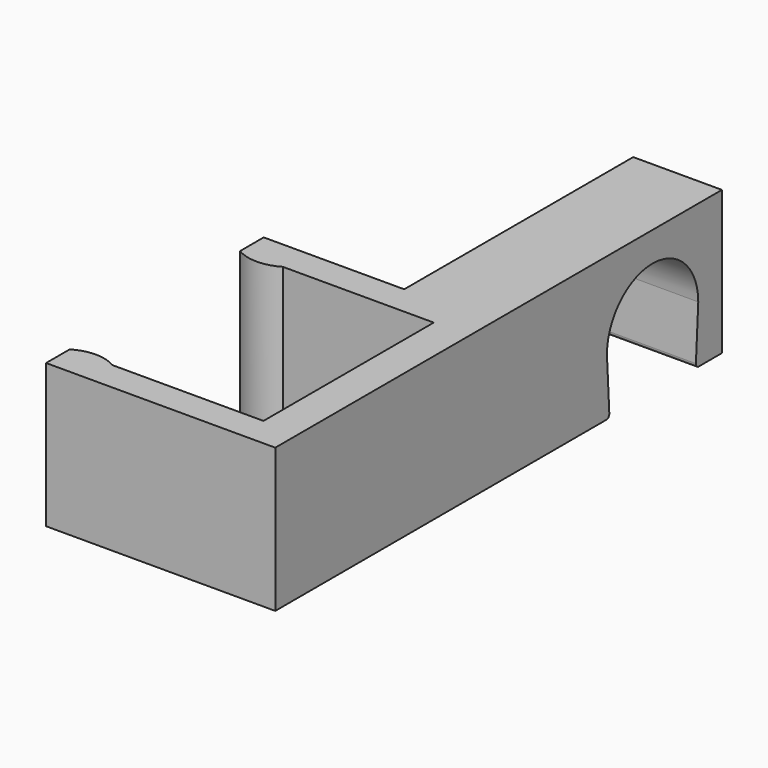
from build123d import *

# Parameters (mm, degrees)
F1_DEPTH = 24.3
F3_DEPTH = 25


with BuildPart() as f1:
    # F0 (on Top) → F1 (new body)
    with BuildSketch(Plane.XY):
        with BuildLine():
            ThreePointArc((0, 0), (3.60941, -1), (7.218819, 0))
            Line((7.218819, 0), (32.749999, 0))
            Line((32.749999, 0), (32.749999, -36))
            Line((32.749999, -36), (7.218819, -36))
            ThreePointArc((7.218819, -36), (3.60941, -35), (0, -36))
            Line((0, -36), (0, -41))
            Line((0, -41), (38.749999, -41))
            Line((38.749999, -41), (38.749999, 53.4))
            Line((38.749999, 53.4), (23.749999, 53.4))
            Line((23.749999, 53.4), (23.749999, 5))
            Line((23.749999, 5), (0, 5))
            Line((0, 5), (0, 0))
        make_face()
    extrude(amount=F1_DEPTH)

    # F2 (on face) → F3 (cut)
    with BuildSketch(Plane.YZ.offset(38.749999)):
        with BuildLine():
            Line((47.9, 0.675506), (48.4, 9.65))
            ThreePointArc((48.4, 9.65), (38.75, 19.3), (29.1, 9.65))
            Line((29.1, 9.65), (29.6, 0.675506))
            ThreePointArc((29.6, 0.675506), (29.471922, 0.247508), (29.1, 0))
            Line((29.1, 0), (48.4, 0))
            ThreePointArc((48.4, 0), (48.028078, 0.247508), (47.9, 0.675506))
        make_face()
    extrude(amount=-F3_DEPTH, mode=Mode.SUBTRACT)


solid = f1.part
